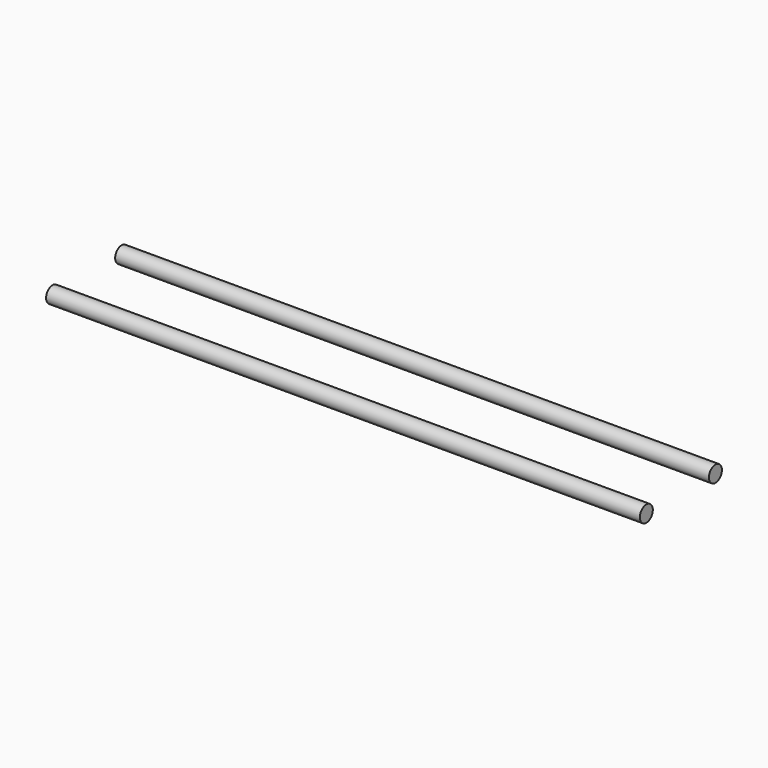
from build123d import *

# Parameters (mm, degrees)
CYLINDER050_R     = 3
CYLINDER050_DEPTH = 220
CYLINDER049_R     = 3
CYLINDER049_DEPTH = 220


with BuildPart() as column006:
    # Cylinder050 → Cylinder050 (new body)
    with BuildSketch(Plane(origin=(-133, 16, 49), x_dir=(0, 0, -1), z_dir=(1, 0, 0))):
        Circle(CYLINDER050_R)
    extrude(amount=CYLINDER050_DEPTH)


with BuildPart() as obj1:
    # Cylinder049 → Cylinder049 (new body)
    with BuildSketch(Plane(origin=(-133, -16, 49), x_dir=(0, 0, -1), z_dir=(1, 0, 0))):
        Circle(CYLINDER049_R)
    extrude(amount=CYLINDER049_DEPTH)

    # Fusion001002012030: union Column006
    add(column006.part)


solid = obj1.part
